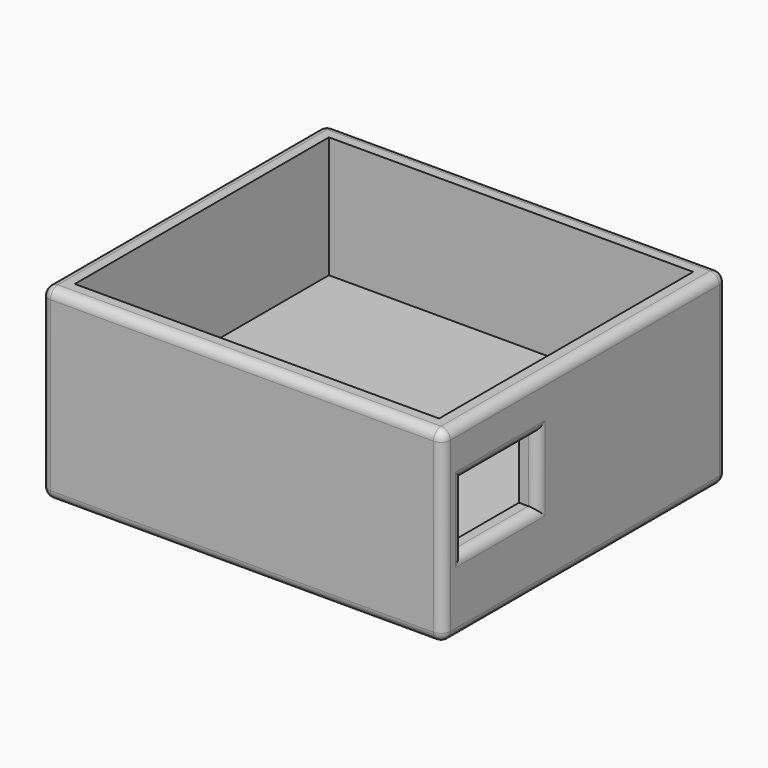
from build123d import *

# Parameters (mm, degrees)
SKETCH_W        = 43
SKETCH_H        = 38
PAD_DEPTH       = 20
SKETCH002_W     = 39
SKETCH002_H     = 34
POCKET001_DEPTH = 5
SKETCH003_W     = 39
SKETCH003_H     = 34
POCKET_DEPTH    = 13
FILLET_R        = 1
FILLET001_R     = 1
FILLET002_R     = 1
FILLET003_R     = 1
FILLET004_R     = 1
FILLET005_R     = 1
FILLET006_R     = 1
FILLET007_R     = 1
FILLET008_R     = 1
FILLET009_R     = 1
SKETCH005_W     = 10
SKETCH005_H     = 7
POCKET002_DEPTH = 5
FILLET010_R     = 1


with BuildPart() as part:
    # Sketch → Pad (new body)
    with BuildSketch(Plane.XY):
        Rectangle(SKETCH_W, SKETCH_H)
    extrude(amount=PAD_DEPTH)

    # Sketch002 → Pocket001 (cut)
    with BuildSketch(Plane(origin=(0, 0, 0), x_dir=(1, 0, 0), z_dir=(0, 0, -1))):
        Rectangle(SKETCH002_W, SKETCH002_H)
    extrude(amount=-POCKET001_DEPTH, mode=Mode.SUBTRACT)

    # Sketch003 (on Face5 of Pocket001) → Pocket (cut)
    with BuildSketch(Plane.XY.offset(20)):
        Rectangle(SKETCH003_W, SKETCH003_H)
    extrude(amount=-POCKET_DEPTH, mode=Mode.SUBTRACT)

    # Fillet
    fillet_edges = [part.edges().sort_by_distance(p)[0] for p in [
        (19.5, 0, 5),
    ]]
    fillet(fillet_edges, radius=FILLET_R)

    # Fillet001
    fillet001_edges = [part.edges().sort_by_distance(p)[0] for p in [
        (-0.5, -17, 5),
    ]]
    fillet(fillet001_edges, radius=FILLET001_R)

    # Fillet002
    fillet002_edges = [part.edges().sort_by_distance(p)[0] for p in [
        (-0.5, 17, 5),
    ]]
    fillet(fillet002_edges, radius=FILLET002_R)

    # Fillet003
    fillet003_edges = [part.edges().sort_by_distance(p)[0] for p in [
        (-19.5, 0, 5),
    ]]
    fillet(fillet003_edges, radius=FILLET003_R)

    # Fillet004
    fillet004_edges = [part.edges().sort_by_distance(p)[0] for p in [
        (-21.5, -19, 10),
    ]]
    fillet(fillet004_edges, radius=FILLET004_R)

    # Fillet005
    fillet005_edges = [part.edges().sort_by_distance(p)[0] for p in [
        (-21.5, 19, 10),
    ]]
    fillet(fillet005_edges, radius=FILLET005_R)

    # Fillet006
    fillet006_edges = [part.edges().sort_by_distance(p)[0] for p in [
        (21.5, 19, 10),
    ]]
    fillet(fillet006_edges, radius=FILLET006_R)

    # Fillet007
    fillet007_edges = [part.edges().sort_by_distance(p)[0] for p in [
        (21.5, -19, 10),
    ]]
    fillet(fillet007_edges, radius=FILLET007_R)

    # Fillet008
    fillet008_edges = [part.edges().sort_by_distance(p)[0] for p in [
        (21.5, 0, 0),
    ]]
    fillet(fillet008_edges, radius=FILLET008_R)

    # Fillet009
    fillet009_edges = [part.edges().sort_by_distance(p)[0] for p in [
        (21.5, 0, 20),
    ]]
    fillet(fillet009_edges, radius=FILLET009_R)

    # Sketch005 (on Face20 of Fillet009) → Pocket002 (cut)
    with BuildSketch(Plane(origin=(19.5, 0, 0), x_dir=(0, -1, 0), z_dir=(-1, 0, 0))):
        with Locations((11.312831, 11.218941)):
            Rectangle(SKETCH005_W, SKETCH005_H)
    extrude(amount=-POCKET002_DEPTH, mode=Mode.SUBTRACT)

    # Fillet010
    fillet010_edges = [part.edges().sort_by_distance(p)[0] for p in [
        (21.5, -11.312831, 7.718941),
        (21.5, -16.312831, 11.218941),
        (21.5, -11.312831, 14.718941),
        (21.5, -6.312831, 11.218941),
    ]]
    fillet(fillet010_edges, radius=FILLET010_R)


solid = part.part
